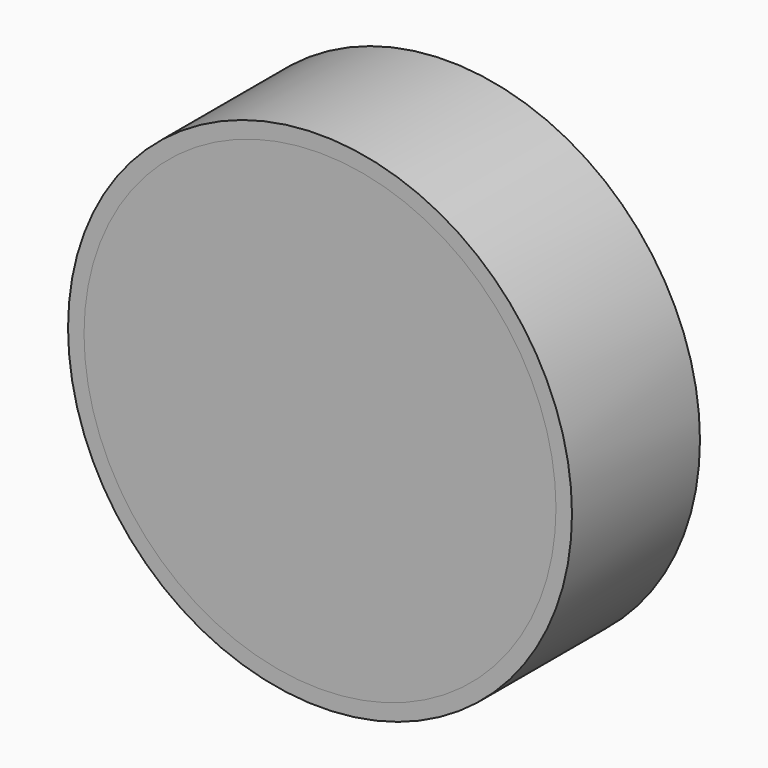
from build123d import *

# Parameters (mm, degrees)
F0_R     = 15.75
F0_R_2   = 14.75
F1_DEPTH = 10
F2_R     = 14.75
F3_DEPTH = 8
F4_DEPTH = 2


with BuildPart() as f1:
    # F0 (on Front) → F1 (new body)
    with BuildSketch(Plane.XZ):
        Circle(F0_R)
        Circle(F0_R_2, mode=Mode.SUBTRACT)
    extrude(amount=-F1_DEPTH)

    # F2 (on Front) → F3 (cut)
    with BuildSketch(Plane.XZ):
        Circle(F2_R)
    extrude(amount=F3_DEPTH, mode=Mode.SUBTRACT)


with BuildPart() as f4:
    # F2 (on Front) → F4 (new body)
    with BuildSketch(Plane.XZ):
        Circle(F2_R)
    extrude(amount=-F4_DEPTH)


solid = Compound([f1.part, f4.part])
